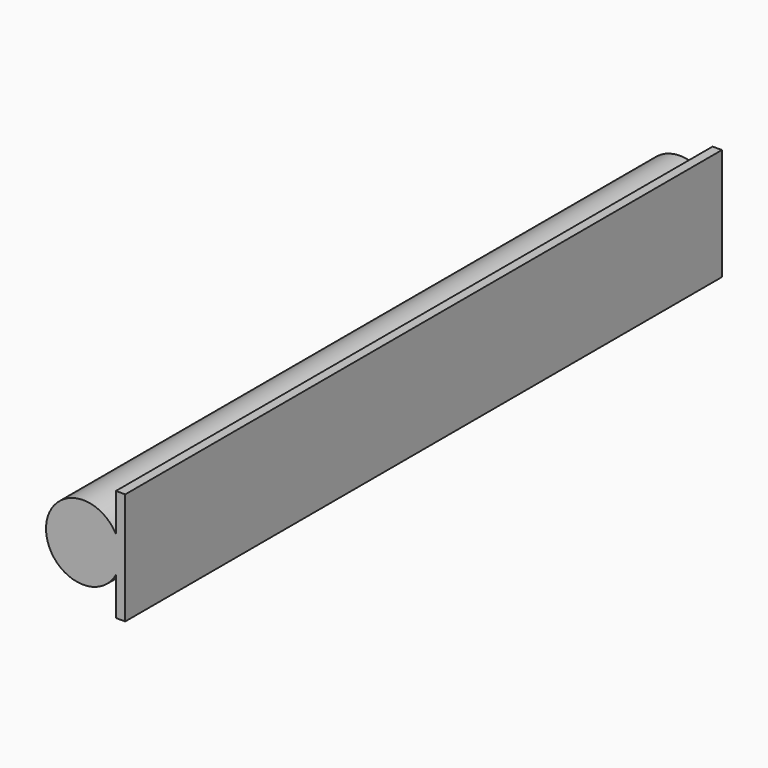
from build123d import *

# Parameters (mm, degrees)
F1_DEPTH = 127


with BuildPart() as f1:
    # F0 (on Front) → F1 (new body, symmetric)
    with BuildSketch(Plane.XZ):
        with BuildLine():
            Line((11.10996, 19.05), (11.10996, 6.147705))
            ThreePointArc((11.10996, 6.147705), (-12.69746, 0), (11.10996, -6.147705))
            Line((11.10996, -6.147705), (11.10996, -19.05))
            Line((11.10996, -19.05), (14.28496, -19.05))
            Line((14.28496, -19.05), (14.28496, 19.05))
            Line((14.28496, 19.05), (11.10996, 19.05))
        make_face()
    extrude(amount=F1_DEPTH, both=True)


solid = f1.part
